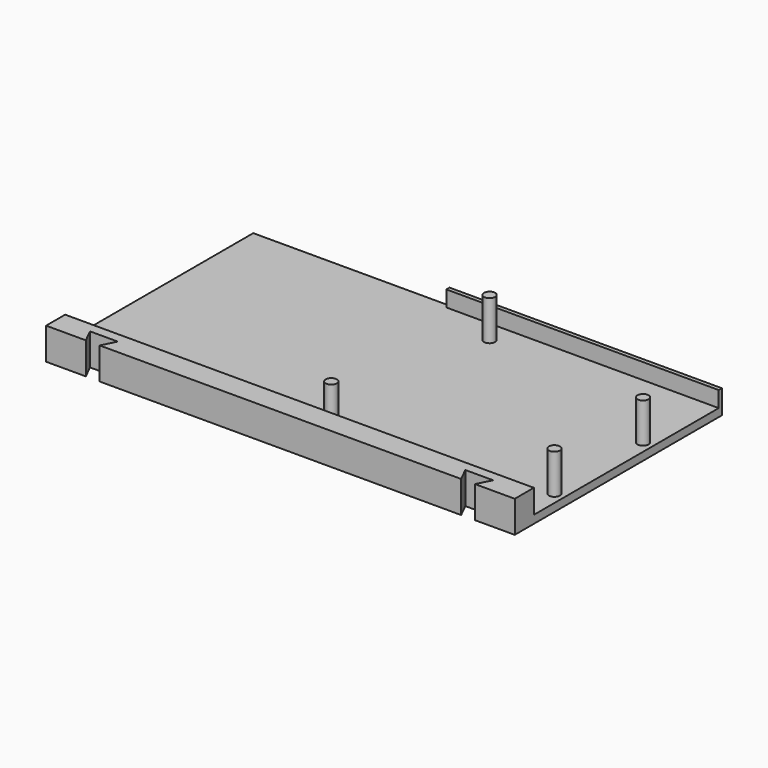
from build123d import *

# Parameters (mm, degrees)
F0_W     = 68.6
F0_H     = 53.2
F0_R     = 1.4
F0_H_2   = 3
F1_DEPTH = 2
F2_DEPTH = 12
F0_H_3   = 1
F3_DEPTH = 6
F4_DEPTH = 8


with BuildPart() as f1:
    # F0 (on Top) → F1 (new body)
    with BuildSketch(Plane.XY):
        with Locations((134.3, 46.6)):
            Rectangle(F0_W, F0_H)
        with Locations((114, 22.5)):
            Circle(F0_R, mode=Mode.SUBTRACT)
        with Locations((166.1, 27.6)):
            Circle(F0_R, mode=Mode.SUBTRACT)
        with Locations((166.1, 55.5)):
            Circle(F0_R, mode=Mode.SUBTRACT)
        with Locations((115.3, 70.7)):
            Circle(F0_R, mode=Mode.SUBTRACT)
        with Locations((134.3, 74.7)):
            Rectangle(F0_W, F0_H_2)
        Polygon((168.6, 20), (100, 20), (50.6, 20), (50.6, 18), (168.6, 18), align=None)
        Polygon((100, 20), (100, 73.2), (100, 76.2), (100, 77.2), (50.6, 77.2), (50.6, 20), align=None)
    extrude(amount=F1_DEPTH)

    # F0 (on Top) → F2 (join)
    with BuildSketch(Plane.XY):
        with Locations((115.3, 70.7)):
            Circle(F0_R)
        with Locations((166.1, 55.5)):
            Circle(F0_R)
        with Locations((166.1, 27.6)):
            Circle(F0_R)
        with Locations((114, 22.5)):
            Circle(F0_R)
    extrude(amount=F2_DEPTH)

    # F0 (on Top) → F3 (join)
    with BuildSketch(Plane.XY):
        with Locations((134.3, 76.7)):
            Rectangle(F0_W, F0_H_3)
    extrude(amount=F3_DEPTH)

    # F0 (on Top) → F4 (join)
    with BuildSketch(Plane.XY):
        Polygon((168.6, 12), (168.6, 18), (50.6, 18), (50.6, 12), (60.6, 12), (58.85, 15.5), (62.35, 15.5), (65.85, 15.5), (64.1, 12), (155.1, 12), (153.35, 15.5), (156.85, 15.5), (160.35, 15.5), (158.6, 12), align=None)
    extrude(amount=F4_DEPTH)


solid = f1.part
